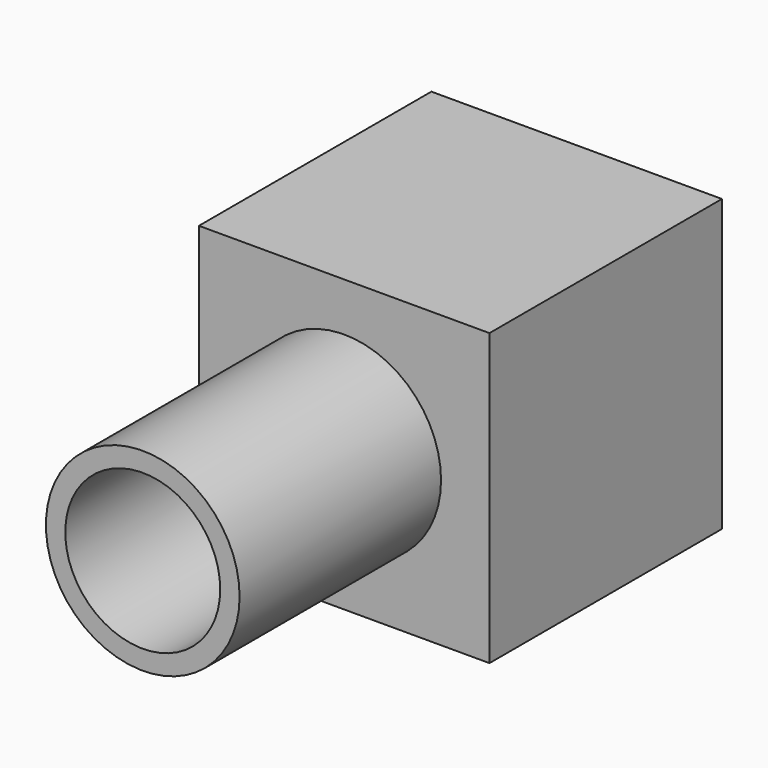
from build123d import *

# Parameters (mm, degrees)
F0_W     = 150
F0_H     = 150
F1_DEPTH = 150
F3_R     = 50
F4_DEPTH = 130
F5_R     = 40
F6_DEPTH = 125


with BuildPart() as f1:
    # F0 (on Top) → F1 (new body)
    with BuildSketch(Plane.XY):
        Rectangle(F0_W, F0_H)
    extrude(amount=F1_DEPTH)

    # F3 (on face) → F4 (join)
    with BuildSketch(Plane.XZ.offset(75)):
        with Locations((0, 75)):
            Circle(F3_R)
    extrude(amount=F4_DEPTH)

    # F5 (on face) → F6 (cut)
    with BuildSketch(Plane.XZ.offset(205)):
        with Locations((0, 75)):
            Circle(F5_R)
    extrude(amount=-F6_DEPTH, mode=Mode.SUBTRACT)


solid = f1.part
